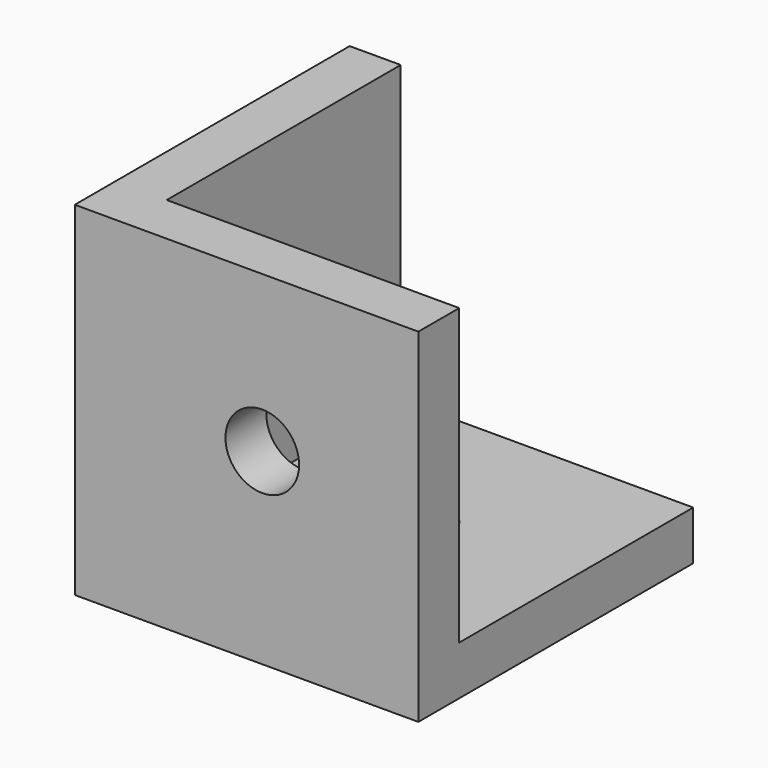
from build123d import *

# Parameters (mm, degrees)
F0_W     = 17.78
F0_H     = 17.78
F0_R     = 1.905
F1_DEPTH = 2.54
F3_DEPTH = 12.7
F4_R     = 1.905
F5_DEPTH = 25.4
F6_R     = 1.905
F7_DEPTH = 25.4
F8_DEPTH = 2.54


with BuildPart() as f1:
    # F0 (on Top) → F1 (new body)
    with BuildSketch(Plane.XY):
        with Locations((8.89, 8.89)):
            Rectangle(F0_W, F0_H)
        with Locations((9.7028, 9.7028)):
            Circle(F0_R, mode=Mode.SUBTRACT)
    extrude(amount=F1_DEPTH)

    # F2 (on face) → F3 (join)
    with BuildSketch(Plane.XY.offset(2.54)):
        Polygon((2.6436052285, 17.78), (0, 17.78), (0, 0), (17.78, 0), (17.78, 2.6436052285), (2.6436052285, 2.6436052285), align=None)
    extrude(amount=F3_DEPTH)

    # F4 (on face) → F5 (cut)
    with BuildSketch(Plane.XZ):
        with Locations((9.7028, 9.7028)):
            Circle(F4_R)
    extrude(amount=-F5_DEPTH, mode=Mode.SUBTRACT)

    # F6 (on face) → F7 (cut)
    with BuildSketch(Plane(origin=(0, 0, 0), x_dir=(0, -1, 0), z_dir=(-1, 0, 0))):
        with Locations((-9.7028, 9.7028)):
            Circle(F6_R)
    extrude(amount=-F7_DEPTH, mode=Mode.SUBTRACT)

    # F8 (add): a face of the model
    f8_faces = [f1.faces().sort_by_distance(p)[0] for p in [
        (2.3921580571, 10.2118026143, 15.24),
    ]]
    extrude(f8_faces, amount=F8_DEPTH)


solid = f1.part
